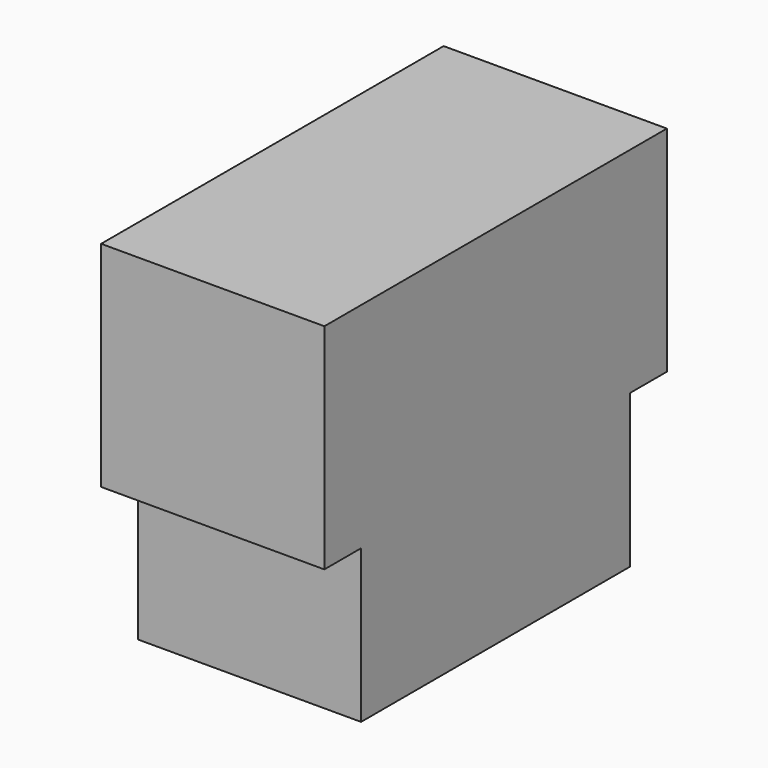
from build123d import *

# Parameters (mm, degrees)
F0_W     = 7.3
F0_H     = 14
F1_DEPTH = 12
F2_W     = 1.5
F2_H     = 5
F3_DEPTH = 25


with BuildPart() as f1:
    # F0 (on Top) → F1 (new body)
    with BuildSketch(Plane.XY):
        Rectangle(F0_W, F0_H)
    extrude(amount=F1_DEPTH)

    # F2 (on face) → F3 (cut)
    with BuildSketch(Plane.YZ.offset(3.65)):
        with Locations((-6.25, 2.5)):
            Rectangle(F2_W, F2_H)
        with Locations((6.25, 2.5)):
            Rectangle(F2_W, F2_H)
    extrude(amount=-F3_DEPTH, mode=Mode.SUBTRACT)


solid = f1.part
